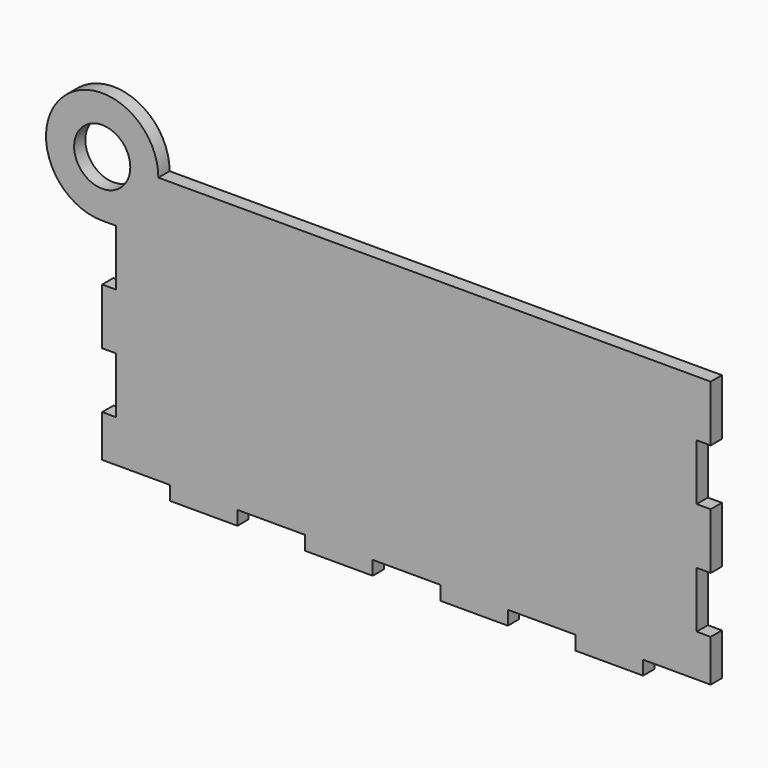
from build123d import *

# Parameters (mm, degrees)
F0_R     = 6
F1_DEPTH = 3


with BuildPart() as f1:
    # F0 (on Front) → F1 (new body)
    with BuildSketch(Plane.XZ):
        with BuildLine():
            Line((40.156027, 16.157978), (40.156027, 28.157978))
            Line((40.156027, 28.157978), (43.156027, 28.157978))
            Line((43.156027, 28.157978), (43.156027, 40.157978))
            Line((43.156027, 40.157978), (40.156027, 40.157978))
            Line((40.156027, 40.157978), (-74.851933, 40.157978))
            ThreePointArc((-74.851933, 40.157978), (-95.337215, 48.64326), (-86.851933, 28.157978))
            Line((-86.851933, 28.157978), (-83.851933, 28.157978))
            Line((-83.851933, 28.157978), (-83.851933, 16.157978))
            Line((-83.851933, 16.157978), (-86.851933, 16.157978))
            Line((-86.851933, 16.157978), (-86.851933, 4.157978))
            Line((-86.851933, 4.157978), (-83.851933, 4.157978))
            Line((-83.851933, 4.157978), (-83.851933, -7.842022))
            Line((-83.851933, -7.842022), (-86.851933, -7.842022))
            Line((-86.851933, -7.842022), (-86.851933, -16.842022))
            Line((-86.851933, -16.842022), (-83.851933, -16.842022))
            Line((-83.851933, -16.842022), (-72.399493, -16.842022))
            Line((-72.399493, -16.842022), (-72.399493, -19.842022))
            Line((-72.399493, -19.842022), (-57.955053, -19.842022))
            Line((-57.955053, -19.842022), (-57.955053, -16.842022))
            Line((-57.955053, -16.842022), (-43.510613, -16.842022))
            Line((-43.510613, -16.842022), (-43.510613, -19.842022))
            Line((-43.510613, -19.842022), (-29.066173, -19.842022))
            Line((-29.066173, -19.842022), (-29.066173, -16.842022))
            Line((-29.066173, -16.842022), (-14.621733, -16.842022))
            Line((-14.621733, -16.842022), (-14.621733, -19.842022))
            Line((-14.621733, -19.842022), (-0.177293, -19.842022))
            Line((-0.177293, -19.842022), (-0.177293, -16.842022))
            Line((-0.177293, -16.842022), (14.267147, -16.842022))
            Line((14.267147, -16.842022), (14.267147, -19.842022))
            Line((14.267147, -19.842022), (28.711587, -19.842022))
            Line((28.711587, -19.842022), (28.711587, -16.842022))
            Line((28.711587, -16.842022), (40.156027, -16.842022))
            Line((40.156027, -16.842022), (43.156027, -16.842022))
            Line((43.156027, -16.842022), (43.156027, -7.842022))
            Line((43.156027, -7.842022), (40.156027, -7.842022))
            Line((40.156027, -7.842022), (40.156027, 4.157978))
            Line((40.156027, 4.157978), (43.156027, 4.157978))
            Line((43.156027, 4.157978), (43.156027, 16.157978))
            Line((43.156027, 16.157978), (40.156027, 16.157978))
        make_face()
        with Locations((-86.851933, 40.157978)):
            Circle(F0_R, mode=Mode.SUBTRACT)
    extrude(amount=F1_DEPTH)


solid = f1.part
